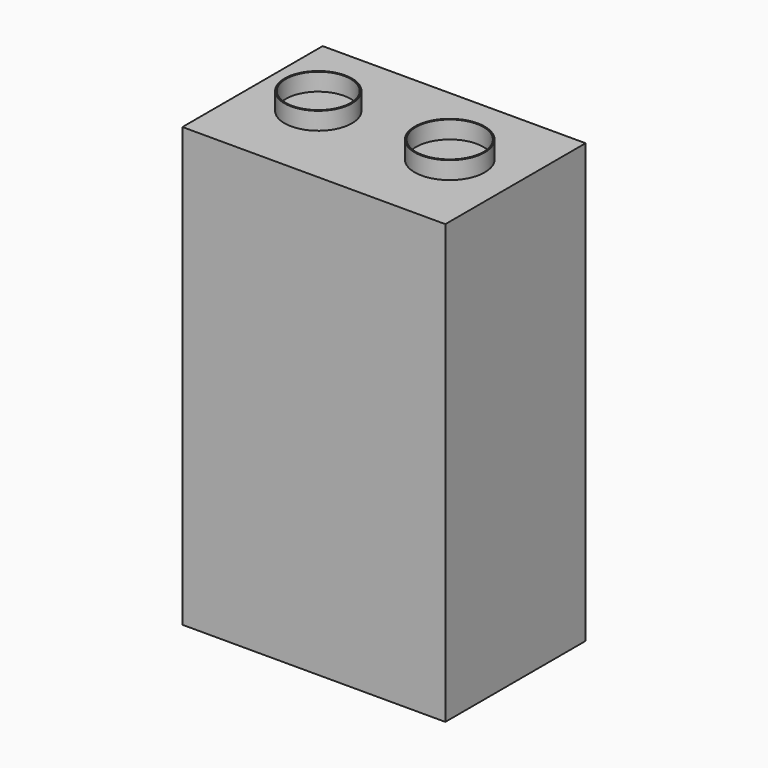
from build123d import *

# Parameters (mm, degrees)
F0_W     = 600
F0_H     = 400
F1_DEPTH = 1000
F2_R     = 77
F2_R_2   = 74
F2_R_3   = 80
F3_DEPTH = 40


with BuildPart() as f1:
    # F0 (on Top) → F1 (new body)
    with BuildSketch(Plane.XY):
        with Locations((-300, -200)):
            Rectangle(F0_W, F0_H)
    extrude(amount=F1_DEPTH)

    # F2 (on face) → F3 (join)
    with BuildSketch(Plane.XY.offset(1000)):
        with Locations((-450, -200)):
            Circle(F2_R)
        with Locations((-450, -200)):
            Circle(F2_R_2, mode=Mode.SUBTRACT)
        with Locations((-150, -200)):
            Circle(F2_R_3)
        with Locations((-150, -200)):
            Circle(F2_R, mode=Mode.SUBTRACT)
    extrude(amount=F3_DEPTH)


solid = f1.part
